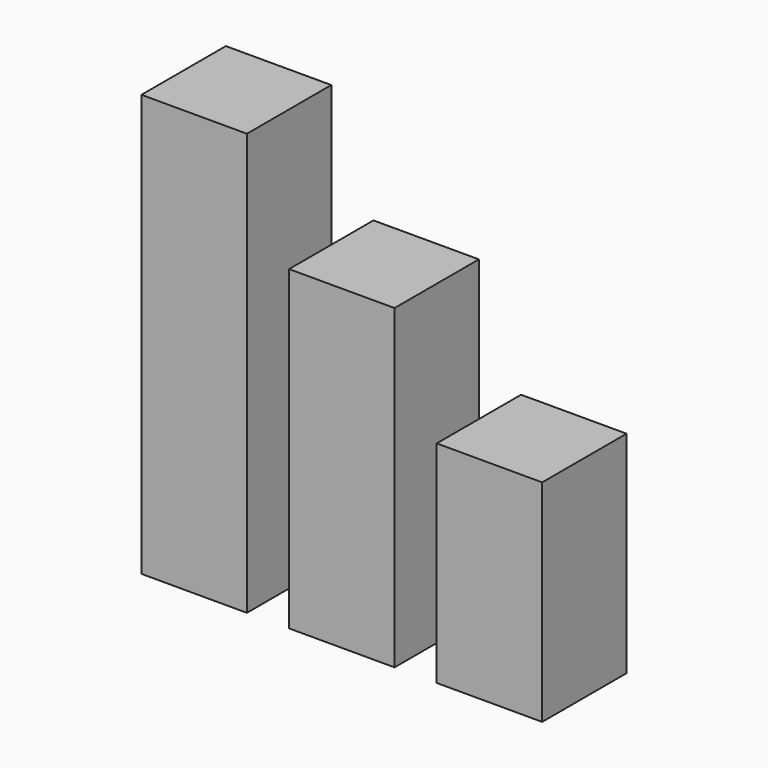
from build123d import *

# Parameters (mm, degrees)
BOX003_W     = 10
BOX003_H     = 10
BOX003_DEPTH = 10
BOX001_W     = 10
BOX001_H     = 10
BOX001_DEPTH = 10
BOX002_W     = 10
BOX002_H     = 10
BOX002_DEPTH = 10
BOX_W        = 10
BOX_H        = 10
BOX_DEPTH    = 10
BOX006_W     = 10
BOX006_H     = 10
BOX006_DEPTH = 10
BOX005_W     = 10
BOX005_H     = 10
BOX005_DEPTH = 10
BOX004_W     = 10
BOX004_H     = 10
BOX004_DEPTH = 10
BOX007_W     = 10
BOX007_H     = 10
BOX007_DEPTH = 10
BOX008_W     = 10
BOX008_H     = 10
BOX008_DEPTH = 10


with BuildPart() as cube003:
    # Box003 → Box003 (new body)
    with BuildSketch(Plane.XY.offset(30)):
        with Locations((5, 5)):
            Rectangle(BOX003_W, BOX003_H)
    extrude(amount=BOX003_DEPTH)


with BuildPart() as cube001:
    # Box001 → Box001 (new body)
    with BuildSketch(Plane.XY.offset(10)):
        with Locations((5, 5)):
            Rectangle(BOX001_W, BOX001_H)
    extrude(amount=BOX001_DEPTH)


with BuildPart() as cube002:
    # Box002 → Box002 (new body)
    with BuildSketch(Plane.XY.offset(20)):
        with Locations((5, 5)):
            Rectangle(BOX002_W, BOX002_H)
    extrude(amount=BOX002_DEPTH)


with BuildPart() as fusion:
    # Box → Box (new body)
    with BuildSketch(Plane.XY):
        with Locations((5, 5)):
            Rectangle(BOX_W, BOX_H)
    extrude(amount=BOX_DEPTH)

    # Fusion: union Cube003, Cube001, Cube002
    add(cube003.part)
    add(cube001.part)
    add(cube002.part)


with BuildPart() as cube006:
    # Box006 → Box006 (new body)
    with BuildSketch(Plane(origin=(14, 0, 20), x_dir=(1, 0, 0), z_dir=(0, 0, 1))):
        with Locations((5, 5)):
            Rectangle(BOX006_W, BOX006_H)
    extrude(amount=BOX006_DEPTH)


with BuildPart() as cube005:
    # Box005 → Box005 (new body)
    with BuildSketch(Plane(origin=(14, 0, 10), x_dir=(1, 0, 0), z_dir=(0, 0, 1))):
        with Locations((5, 5)):
            Rectangle(BOX005_W, BOX005_H)
    extrude(amount=BOX005_DEPTH)


with BuildPart() as fusion001:
    # Box004 → Box004 (new body)
    with BuildSketch(Plane(origin=(14, 0, 0), x_dir=(1, 0, 0), z_dir=(0, 0, 1))):
        with Locations((5, 5)):
            Rectangle(BOX004_W, BOX004_H)
    extrude(amount=BOX004_DEPTH)

    # Fusion001: union Cube006, Cube005
    add(cube006.part)
    add(cube005.part)


with BuildPart() as cube007:
    # Box007 → Box007 (new body)
    with BuildSketch(Plane(origin=(28, 0, 0), x_dir=(1, 0, 0), z_dir=(0, 0, 1))):
        with Locations((5, 5)):
            Rectangle(BOX007_W, BOX007_H)
    extrude(amount=BOX007_DEPTH)


with BuildPart() as fusion002:
    # Box008 → Box008 (new body)
    with BuildSketch(Plane(origin=(28, 0, 10), x_dir=(1, 0, 0), z_dir=(0, 0, 1))):
        with Locations((5, 5)):
            Rectangle(BOX008_W, BOX008_H)
    extrude(amount=BOX008_DEPTH)

    # Fusion002: union Cube007
    add(cube007.part)


solid = Compound([fusion.part, fusion001.part, fusion002.part])
